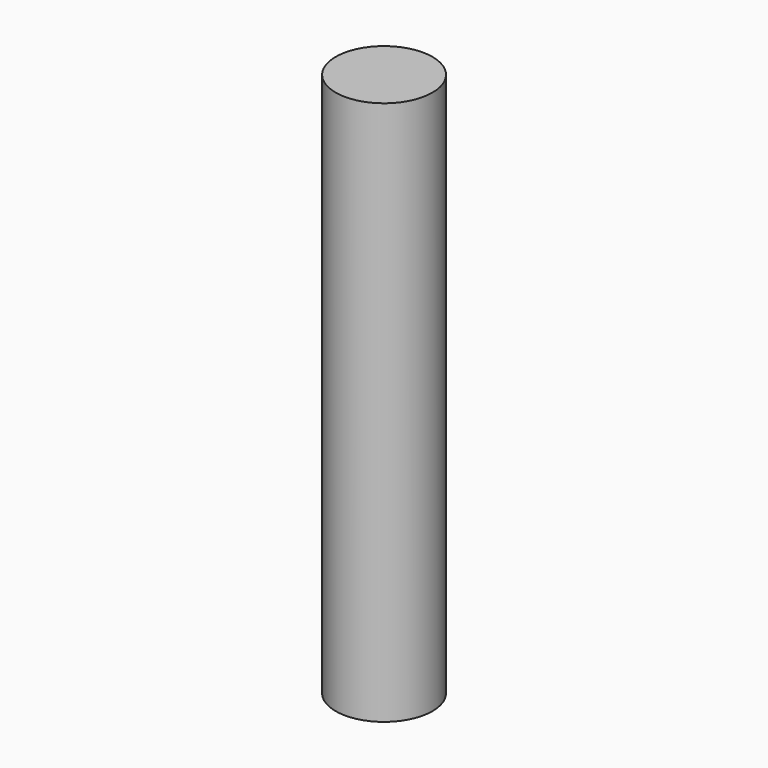
from build123d import *

# Parameters (mm, degrees)
CYLINDER_R     = 1.3335
CYLINDER_DEPTH = 15


with BuildPart() as part:
    # Cylinder → Cylinder (new body)
    with BuildSketch(Plane.XY.offset(-2.5)):
        Circle(CYLINDER_R)
    extrude(amount=CYLINDER_DEPTH)


solid = part.part
